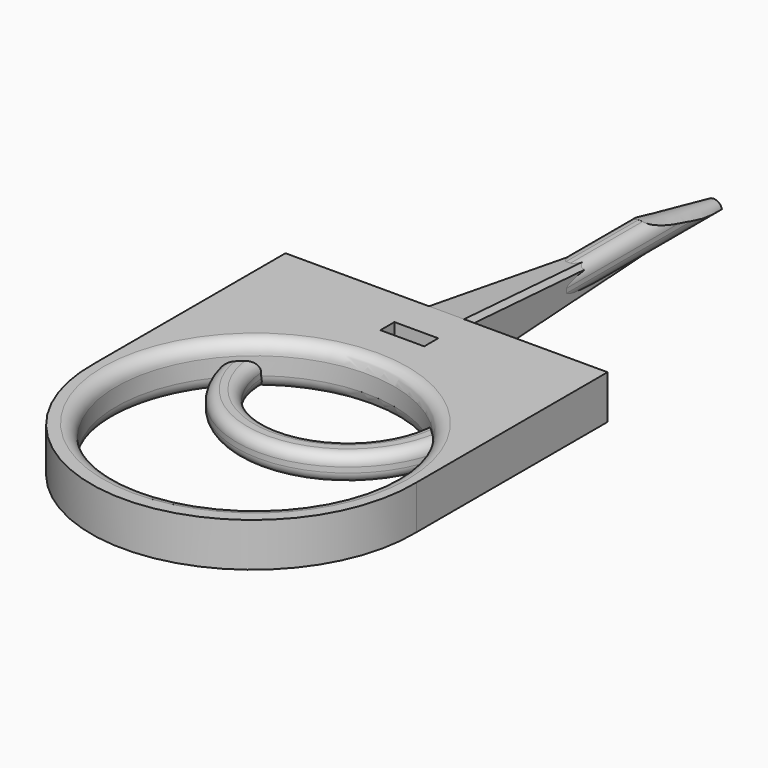
from build123d import *

# Parameters (mm, degrees)
SKETCH_R        = 15.875
PAD_DEPTH       = 5
SKETCH001_W     = 5
SKETCH001_H     = 2
POCKET_DEPTH    = 5.001
POCKET001_DEPTH = 36.756
CHAMFER_SIZE    = 0.5
FILLET_R        = 1.5
SKETCH003_R     = 9.525
SKETCH003_W     = 5
SKETCH003_H     = 2
SKETCH003_W_2   = 3
SKETCH003_H_2   = 38.1
PAD001_DEPTH    = 3
FILLET001_R     = 1.25
FILLET002_R     = 1.2


with BuildPart() as mountbody:
    # Sketch → Pad (new body)
    with BuildSketch(Plane.XY):
        with BuildLine():
            Line((-18.38, 0), (-18.38, -8))
            Line((-18.38, -8), (-18.38, -27.26))
            ThreePointArc((-18.38, -27.26), (-0.005, -46.06869), (18.37, -27.26))
            Line((18.37, -27.26), (18.37, -8))
            Line((18.37, -8), (18.37, 0))
            Line((18.37, 0), (2.5, 0))
            Line((0, 38.1), (2.5, 0))
            Line((-2.5, 0), (0, 38.1))
            Line((-2.5, 0), (-18.38, 0))
        make_face()
        with Locations((0, -27.26)):
            Circle(SKETCH_R, mode=Mode.SUBTRACT)
    extrude(amount=PAD_DEPTH)

    # Sketch001 (on Face8 of Pad) → Pocket (cut, through all)
    with BuildSketch(Plane.XY.offset(5)):
        with Locations((0, -5.31)):
            Rectangle(SKETCH001_W, SKETCH001_H)
    extrude(amount=-POCKET_DEPTH, mode=Mode.SUBTRACT)

    # Sketch002 (on Face9 of Pocket) → Pocket001 (cut, through all)
    with BuildSketch(Plane.YZ.offset(18.37)):
        Polygon((43.413498, 0), (0, 5), (43.663979, 7.023387), align=None)
    extrude(amount=-POCKET001_DEPTH, mode=Mode.SUBTRACT)

    # Chamfer
    chamfer_edges = [mountbody.edges().sort_by_distance(p)[0] for p in [
        (-1.25, 19.05, 2.805982),
        (1.25, 19.05, 2.805982),
    ]]
    chamfer(chamfer_edges, length=CHAMFER_SIZE)

    # Fillet
    fillet_edges = [mountbody.edges().sort_by_distance(p)[0] for p in [
        (-15.875, -27.26, 5),
        (-15.875, -27.26, 0),
    ]]
    fillet(fillet_edges, radius=FILLET_R)


with BuildPart() as mountbody001:
    # Sketch003 → Pad001 (new body)
    with BuildSketch(Plane.XY):
        with BuildLine():
            Line((-12.7, 0), (-12.7, -14.02))
            ThreePointArc((-12.7, -14.02), (0, -26.72), (12.7, -14.02))
            Line((12.7, -14.02), (12.7, 0))
            Line((12.7, 0), (-12.7, 0))
        make_face()
        with Locations((0, -14.02)):
            Circle(SKETCH003_R, mode=Mode.SUBTRACT)
        with Locations((0, -2.25)):
            Rectangle(SKETCH003_W, SKETCH003_H, mode=Mode.SUBTRACT)
        with Locations((0, 19.05)):
            Rectangle(SKETCH003_W_2, SKETCH003_H_2)
    extrude(amount=PAD001_DEPTH)

    # Sketch004 → Groove (revolve, cut)
    with BuildSketch(Plane.YZ):
        Polygon((11.575809, 6.155771), (40.717484, 0.451151), (38.905262, 6.358538), align=None)
    revolve(axis=Axis((0, 0, 0), (0, 1, 0)), mode=Mode.SUBTRACT)

    # Fillet001
    fillet001_edges = [mountbody001.edges().sort_by_distance(p)[0] for p in [
        (1.5, 12.943975, 3),
        (-1.5, 12.943975, 3),
        (1.5, 17.679754, 0),
        (-1.5, 17.679754, 0),
    ]]
    fillet(fillet001_edges, radius=FILLET001_R)

    # Fillet002
    fillet002_edges = [mountbody001.edges().sort_by_distance(p)[0] for p in [
        (-9.525, -14.02, 3),
        (-9.525, -14.02, 0),
        (0, -26.72, 3),
        (12.7, -7.01, 3),
        (12.7, -7.01, 0),
        (0, -26.72, 0),
        (7.1, 0, 3),
        (-7.1, 0, 3),
        (-12.7, -7.01, 3),
        (7.1, 0, 0),
        (-7.1, 0, 0),
        (-12.7, -7.01, 0),
    ]]
    fillet(fillet002_edges, radius=FILLET002_R)


solid = Compound([mountbody.part, mountbody001.part])
